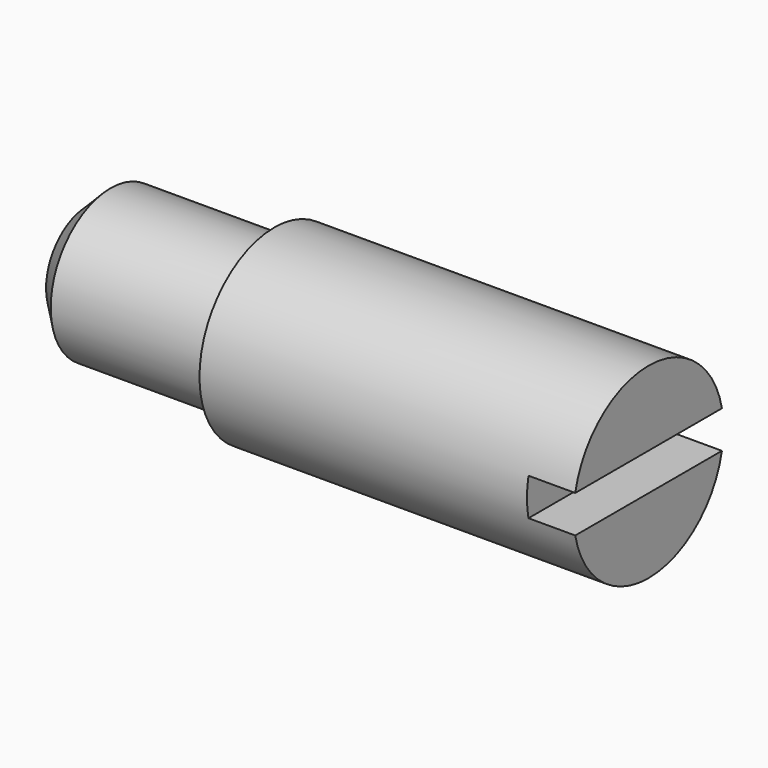
from build123d import *

# Parameters (mm, degrees)
F2_SIZE  = 0.25
F3_W     = 1.5
F3_H     = 0.4
F4_DEPTH = 12.5


with BuildPart() as f1:
    # F0 (on Front) → F1 (revolve)
    with BuildSketch(Plane.XZ):
        Polygon((0, 0.8), (0, 0), (6, 0), (6, 1), (2, 1), (2, 0.8), align=None)
    revolve(axis=Axis((3, 0, 0), (1, 0, 0)))

    # F2
    f2_edges = [f1.edges().sort_by_distance(p)[0] for p in [
        (0, 0, -0.8),
    ]]
    chamfer(f2_edges, length=F2_SIZE)

    # F3 (on Front) → F4 (cut, symmetric)
    with BuildSketch(Plane.XZ):
        with Locations((6.25, 0)):
            Rectangle(F3_W, F3_H)
    extrude(amount=F4_DEPTH, both=True, mode=Mode.SUBTRACT)


solid = f1.part
